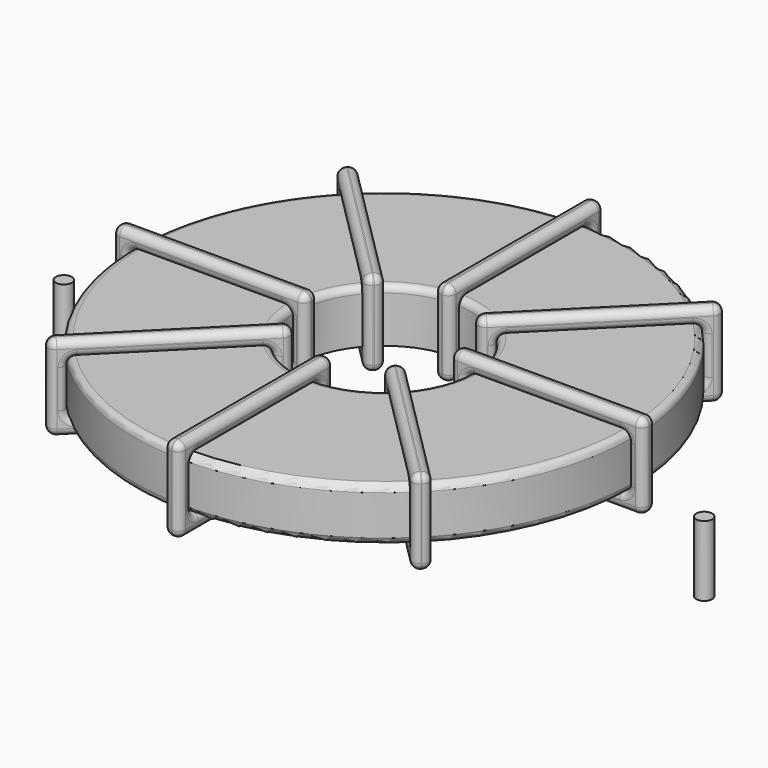
from build123d import *

# Parameters (mm, degrees)
SKETCH001_R       = 0.6
PAD001_DEPTH      = 0.6
PAD001_DEPTH_BACK = 4.7
SKETCH_R          = 18.8
SKETCH_R_2        = 6.666667
PAD_DEPTH         = 4
FILLET_R          = 0.5
SKETCH003_W       = 14.533333
SKETCH003_H       = 6.4
SKETCH003_W_2     = 12.133333
SKETCH003_H_2     = 4
PAD002_DEPTH      = 0.6
FILLET001_R       = 0.564
SKETCH004_W       = 14.533333
SKETCH004_H       = 6.4
SKETCH004_W_2     = 12.133333
SKETCH004_H_2     = 4
PAD003_DEPTH      = 0.6
FILLET002_R       = 0.564
SKETCH005_W       = 14.533333
SKETCH005_H       = 6.4
SKETCH005_W_2     = 12.133333
SKETCH005_H_2     = 4
PAD004_DEPTH      = 0.6
FILLET003_R       = 0.564
SKETCH006_W       = 14.533333
SKETCH006_H       = 6.4
SKETCH006_W_2     = 12.133333
SKETCH006_H_2     = 4
PAD005_DEPTH      = 0.6
FILLET004_R       = 0.564


with BuildPart() as pad001:
    # Sketch001 → Pad001 (new body, two sides)
    with BuildSketch(Plane.XY.offset(1.1)) as pad001_sk:
        Circle(SKETCH001_R)
        with Locations((48.26, 0)):
            Circle(SKETCH001_R)
    extrude(amount=PAD001_DEPTH)
    extrude(pad001_sk.sketch, amount=-PAD001_DEPTH_BACK)


with BuildPart() as fillet_body:
    # Sketch → Pad (new body)
    with BuildSketch(Plane.XY.offset(1.7)):
        with Locations((24.13, 0)):
            Circle(SKETCH_R)
        with Locations((24.13, 0)):
            Circle(SKETCH_R_2, mode=Mode.SUBTRACT)
    extrude(amount=PAD_DEPTH)

    # Fillet
    fillet_edges = [fillet_body.edges().sort_by_distance(p)[0] for p in [
        (17.463333, 0, 5.7),
        (5.33, 0, 5.7),
        (5.33, 0, 1.7),
    ]]
    fillet(fillet_edges, radius=FILLET_R)


with BuildPart() as fillet001:
    # Sketch003 → Pad002 (new body, symmetric)
    with BuildSketch(Plane(origin=(24.13, 0, 0), x_dir=(1, 0, 0), z_dir=(0, -1, 0))):
        with Locations((-12.733334, 3.7)):
            Rectangle(SKETCH003_W, SKETCH003_H)
        with Locations((-12.733334, 3.7)):
            Rectangle(SKETCH003_W_2, SKETCH003_H_2, mode=Mode.SUBTRACT)
        with Locations((12.733334, 3.7)):
            Rectangle(SKETCH003_W, SKETCH003_H)
        with Locations((12.733334, 3.7)):
            Rectangle(SKETCH003_W_2, SKETCH003_H_2, mode=Mode.SUBTRACT)
    extrude(amount=PAD002_DEPTH, both=True)

    # Fillet001
    fillet001_edges = [fillet001.edges().sort_by_distance(p)[0] for p in [
        (17.463333, 0, 5.7),
        (17.463333, 0, 1.7),
        (17.463333, 0.6, 3.7),
        (17.463333, -0.6, 3.7),
        (4.13, 0, 6.9),
        (18.663333, 0, 6.9),
        (11.396667, 0.6, 6.9),
        (11.396667, -0.6, 6.9),
        (18.663333, 0, 0.5),
        (18.663333, 0.6, 3.7),
        (18.663333, -0.6, 3.7),
        (30.796667, 0, 5.7),
        (42.93, 0, 5.7),
        (36.863333, 0.6, 5.7),
        (36.863333, -0.6, 5.7),
        (42.93, 0, 1.7),
        (42.93, 0.6, 3.7),
        (42.93, -0.6, 3.7),
        (29.596667, 0, 6.9),
        (44.13, 0, 6.9),
        (36.863333, 0.6, 6.9),
        (36.863333, -0.6, 6.9),
        (44.13, 0, 0.5),
        (44.13, 0.6, 3.7),
        (44.13, -0.6, 3.7),
        (5.33, 0, 5.7),
        (11.396667, 0.6, 5.7),
        (11.396667, -0.6, 5.7),
        (30.796667, 0, 1.7),
        (30.796667, 0.6, 3.7),
        (30.796667, -0.6, 3.7),
        (36.863333, 0.6, 1.7),
        (36.863333, -0.6, 1.7),
        (29.596667, 0, 0.5),
        (36.863333, 0.6, 0.5),
        (36.863333, -0.6, 0.5),
        (29.596667, 0.6, 3.7),
        (29.596667, -0.6, 3.7),
        (4.13, 0, 0.5),
        (11.396667, 0.6, 0.5),
        (11.396667, -0.6, 0.5),
        (4.13, 0.6, 3.7),
        (4.13, -0.6, 3.7),
        (5.33, 0, 1.7),
        (5.33, 0.6, 3.7),
        (5.33, -0.6, 3.7),
        (11.396667, 0.6, 1.7),
        (11.396667, -0.6, 1.7),
    ]]
    fillet(fillet001_edges, radius=FILLET001_R)


with BuildPart() as fillet002:
    # Sketch004 → Pad003 (new body, symmetric)
    with BuildSketch(Plane(origin=(24.13, 0, 0), x_dir=(0.707107, 0.707107, 0), z_dir=(0.707107, -0.707107, 0))):
        with Locations((-12.733334, 3.7)):
            Rectangle(SKETCH004_W, SKETCH004_H)
        with Locations((-12.733334, 3.7)):
            Rectangle(SKETCH004_W_2, SKETCH004_H_2, mode=Mode.SUBTRACT)
        with Locations((12.733334, 3.7)):
            Rectangle(SKETCH004_W, SKETCH004_H)
        with Locations((12.733334, 3.7)):
            Rectangle(SKETCH004_W_2, SKETCH004_H_2, mode=Mode.SUBTRACT)
    extrude(amount=PAD003_DEPTH, both=True)

    # Fillet002
    fillet002_edges = [fillet002.edges().sort_by_distance(p)[0] for p in [
        (19.415955, -4.714045, 5.7),
        (19.415955, -4.714045, 1.7),
        (18.991691, -4.289781, 3.7),
        (19.840219, -5.138309, 3.7),
        (9.987864, -14.142136, 6.9),
        (20.264483, -3.865517, 6.9),
        (14.70191, -8.579562, 6.9),
        (15.550438, -9.42809, 6.9),
        (20.264483, -3.865517, 0.5),
        (19.840219, -3.441253, 3.7),
        (20.688747, -4.289781, 3.7),
        (28.844045, 4.714045, 5.7),
        (37.423607, 13.293607, 5.7),
        (32.709562, 9.42809, 5.7),
        (33.55809, 8.579562, 5.7),
        (37.423607, 13.293607, 1.7),
        (36.999343, 13.717872, 3.7),
        (37.847872, 12.869343, 3.7),
        (27.995517, 3.865517, 6.9),
        (38.272136, 14.142136, 6.9),
        (32.709562, 9.42809, 6.9),
        (33.55809, 8.579562, 6.9),
        (38.272136, 14.142136, 0.5),
        (37.847872, 14.5664, 3.7),
        (38.6964, 13.717872, 3.7),
        (10.836393, -13.293607, 5.7),
        (14.70191, -8.579562, 5.7),
        (15.550438, -9.42809, 5.7),
        (28.844045, 4.714045, 1.7),
        (28.419781, 5.138309, 3.7),
        (29.268309, 4.289781, 3.7),
        (32.709562, 9.42809, 1.7),
        (33.55809, 8.579562, 1.7),
        (27.995517, 3.865517, 0.5),
        (32.709562, 9.42809, 0.5),
        (33.55809, 8.579562, 0.5),
        (27.571253, 4.289781, 3.7),
        (28.419781, 3.441253, 3.7),
        (9.987864, -14.142136, 0.5),
        (14.70191, -8.579562, 0.5),
        (15.550438, -9.42809, 0.5),
        (9.5636, -13.717872, 3.7),
        (10.412128, -14.5664, 3.7),
        (10.836393, -13.293607, 1.7),
        (10.412128, -12.869343, 3.7),
        (11.260657, -13.717872, 3.7),
        (14.70191, -8.579562, 1.7),
        (15.550438, -9.42809, 1.7),
    ]]
    fillet(fillet002_edges, radius=FILLET002_R)


with BuildPart() as fillet003:
    # Sketch005 → Pad004 (new body, symmetric)
    with BuildSketch(Plane(origin=(24.13, 0, 0), x_dir=(0.707107, -0.707107, 0), z_dir=(-0.707107, -0.707107, 0))):
        with Locations((-12.733334, 3.7)):
            Rectangle(SKETCH005_W, SKETCH005_H)
        with Locations((-12.733334, 3.7)):
            Rectangle(SKETCH005_W_2, SKETCH005_H_2, mode=Mode.SUBTRACT)
        with Locations((12.733334, 3.7)):
            Rectangle(SKETCH005_W, SKETCH005_H)
        with Locations((12.733334, 3.7)):
            Rectangle(SKETCH005_W_2, SKETCH005_H_2, mode=Mode.SUBTRACT)
    extrude(amount=PAD004_DEPTH, both=True)

    # Fillet003
    fillet003_edges = [fillet003.edges().sort_by_distance(p)[0] for p in [
        (19.415955, 4.714045, 5.7),
        (19.415955, 4.714045, 1.7),
        (19.840219, 5.138309, 3.7),
        (18.991691, 4.289781, 3.7),
        (9.987864, 14.142136, 6.9),
        (20.264483, 3.865517, 6.9),
        (15.550438, 9.42809, 6.9),
        (14.70191, 8.579562, 6.9),
        (20.264483, 3.865517, 0.5),
        (20.688747, 4.289781, 3.7),
        (19.840219, 3.441253, 3.7),
        (28.844045, -4.714045, 5.7),
        (37.423607, -13.293607, 5.7),
        (33.55809, -8.579562, 5.7),
        (32.709562, -9.42809, 5.7),
        (37.423607, -13.293607, 1.7),
        (37.847872, -12.869343, 3.7),
        (36.999343, -13.717872, 3.7),
        (27.995517, -3.865517, 0.5),
        (27.995517, -3.865517, 6.9),
        (28.419781, -3.441253, 3.7),
        (27.571253, -4.289781, 3.7),
        (38.272136, -14.142136, 0.5),
        (33.55809, -8.579562, 0.5),
        (32.709562, -9.42809, 0.5),
        (10.836393, 13.293607, 5.7),
        (15.550438, 9.42809, 5.7),
        (14.70191, 8.579562, 5.7),
        (28.844045, -4.714045, 1.7),
        (29.268309, -4.289781, 3.7),
        (28.419781, -5.138309, 3.7),
        (33.55809, -8.579562, 1.7),
        (32.709562, -9.42809, 1.7),
        (38.272136, -14.142136, 6.9),
        (38.6964, -13.717872, 3.7),
        (37.847872, -14.5664, 3.7),
        (33.55809, -8.579562, 6.9),
        (32.709562, -9.42809, 6.9),
        (9.987864, 14.142136, 0.5),
        (15.550438, 9.42809, 0.5),
        (14.70191, 8.579562, 0.5),
        (10.412128, 14.5664, 3.7),
        (9.5636, 13.717872, 3.7),
        (10.836393, 13.293607, 1.7),
        (11.260657, 13.717872, 3.7),
        (10.412128, 12.869343, 3.7),
        (15.550438, 9.42809, 1.7),
        (14.70191, 8.579562, 1.7),
    ]]
    fillet(fillet003_edges, radius=FILLET003_R)


with BuildPart() as fillet004:
    # Sketch006 → Pad005 (new body, symmetric)
    with BuildSketch(Plane.YZ.offset(24.13)):
        with Locations((-12.733334, 3.7)):
            Rectangle(SKETCH006_W, SKETCH006_H)
        with Locations((-12.733334, 3.7)):
            Rectangle(SKETCH006_W_2, SKETCH006_H_2, mode=Mode.SUBTRACT)
        with Locations((12.733334, 3.7)):
            Rectangle(SKETCH006_W, SKETCH006_H)
        with Locations((12.733334, 3.7)):
            Rectangle(SKETCH006_W_2, SKETCH006_H_2, mode=Mode.SUBTRACT)
    extrude(amount=PAD005_DEPTH, both=True)

    # Fillet004
    fillet004_edges = [fillet004.edges().sort_by_distance(p)[0] for p in [
        (24.13, -6.666667, 5.7),
        (24.13, -6.666667, 1.7),
        (23.53, -6.666667, 3.7),
        (24.73, -6.666667, 3.7),
        (24.13, -20, 6.9),
        (24.13, -5.466667, 6.9),
        (23.53, -12.733333, 6.9),
        (24.73, -12.733333, 6.9),
        (24.13, -5.466667, 0.5),
        (23.53, -5.466667, 3.7),
        (24.73, -5.466667, 3.7),
        (24.13, 6.666667, 5.7),
        (24.13, 18.8, 5.7),
        (23.53, 12.733333, 5.7),
        (24.73, 12.733333, 5.7),
        (24.13, 18.8, 1.7),
        (23.53, 18.8, 3.7),
        (24.73, 18.8, 3.7),
        (24.13, 5.466667, 6.9),
        (24.13, 20, 6.9),
        (23.53, 12.733333, 6.9),
        (24.73, 12.733333, 6.9),
        (24.13, 20, 0.5),
        (23.53, 20, 3.7),
        (24.73, 20, 3.7),
        (24.13, -18.8, 5.7),
        (23.53, -12.733333, 5.7),
        (24.73, -12.733333, 5.7),
        (24.13, 6.666667, 1.7),
        (23.53, 6.666667, 3.7),
        (24.73, 6.666667, 3.7),
        (23.53, 12.733333, 1.7),
        (24.73, 12.733333, 1.7),
        (24.13, 5.466667, 0.5),
        (23.53, 12.733333, 0.5),
        (24.73, 12.733333, 0.5),
        (23.53, 5.466667, 3.7),
        (24.73, 5.466667, 3.7),
        (24.13, -20, 0.5),
        (23.53, -12.733333, 0.5),
        (24.73, -12.733333, 0.5),
        (23.53, -20, 3.7),
        (24.73, -20, 3.7),
        (24.13, -18.8, 1.7),
        (23.53, -18.8, 3.7),
        (24.73, -18.8, 3.7),
        (23.53, -12.733333, 1.7),
        (24.73, -12.733333, 1.7),
    ]]
    fillet(fillet004_edges, radius=FILLET004_R)


solid = Compound([pad001.part, fillet_body.part, fillet001.part, fillet002.part, fillet003.part, fillet004.part])
